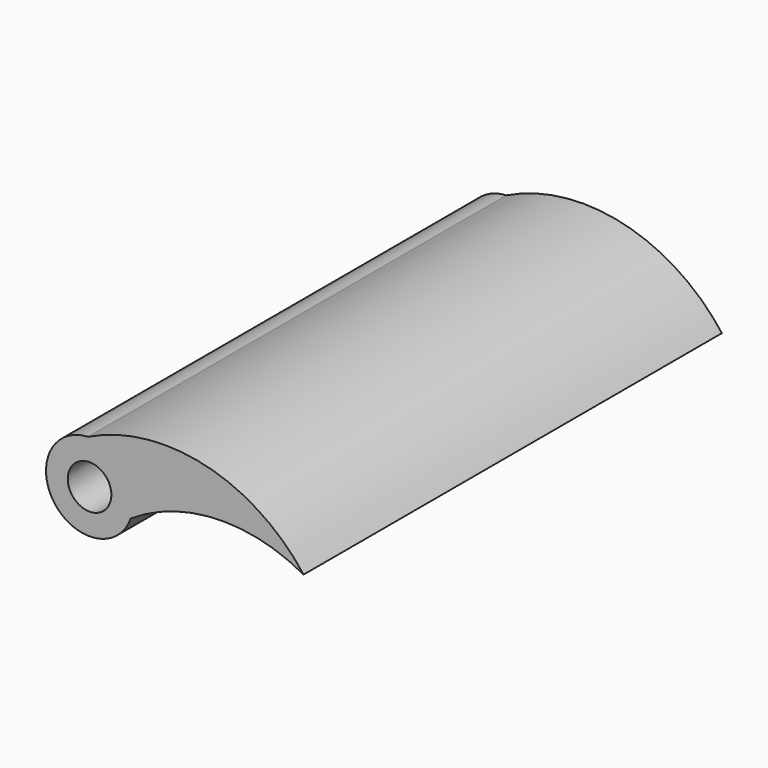
from build123d import *

# Parameters (mm, degrees)
F0_R     = 3.175
F1_DEPTH = 76.2


with BuildPart() as f1:
    # F0 (on Front) → F1 (new body)
    with BuildSketch(Plane.XZ):
        with BuildLine():
            ThreePointArc((-69.372211, 40.419447), (-69.100298, 41.462677), (-69.008781, 42.53687))
            ThreePointArc((-69.008781, 42.53687), (-70.954579, 47.11131), (-75.599492, 48.882306))
            ThreePointArc((-75.599492, 48.882306), (-81.664762, 41.790478), (-74.111471, 36.310577))
            ThreePointArc((-74.111471, 36.310577), (-71.87486, 38.51844), (-69.372211, 40.419447))
        make_face()
        with Locations((-75.358781, 42.53687)):
            Circle(F0_R, mode=Mode.SUBTRACT)
        with BuildLine():
            ThreePointArc((-75.599492, 48.882306), (-70.954579, 47.11131), (-69.008781, 42.53687))
            ThreePointArc((-69.008781, 42.53687), (-69.100298, 41.462677), (-69.372211, 40.419447))
            ThreePointArc((-69.372211, 40.419447), (-56.911602, 44.443784), (-44.170318, 41.423559))
            ThreePointArc((-44.170318, 41.423559), (-58.546496, 50.792631), (-75.599492, 48.882306))
        make_face()
        with BuildLine():
            ThreePointArc((-74.111471, 36.310577), (-71.199098, 37.739001), (-69.372211, 40.419447))
            ThreePointArc((-69.372211, 40.419447), (-71.87486, 38.51844), (-74.111471, 36.310577))
        make_face()
    extrude(amount=F1_DEPTH)


solid = f1.part
